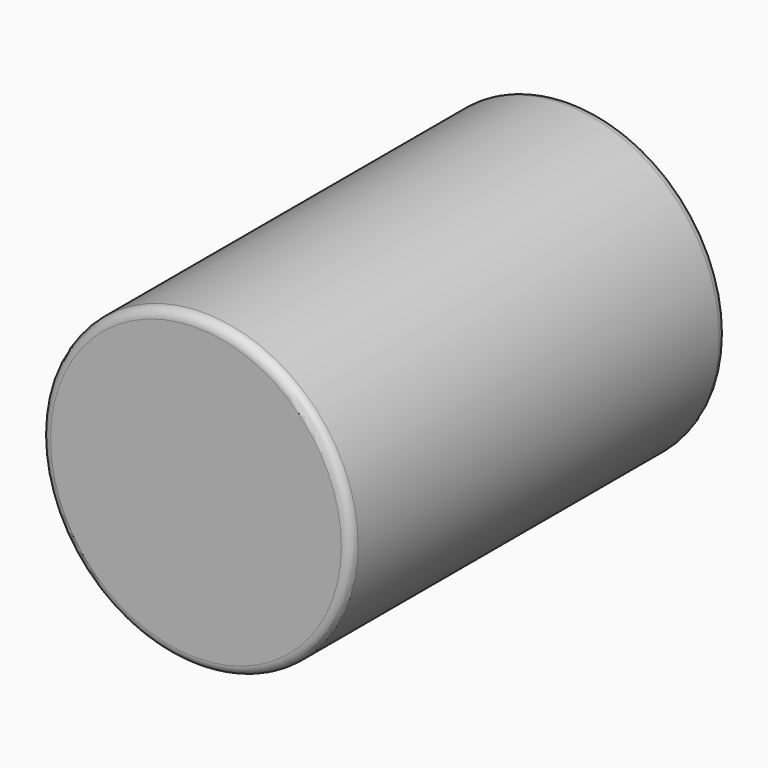
from build123d import *

# Parameters (mm, degrees)
F0_R     = 41.81566
F1_DEPTH = 127
F2_R     = 11.875081
F3_DEPTH = 6.35
F4_R     = 2.54
F5_R     = 2.54
F6_R     = 1.27


with BuildPart() as f1:
    # F0 (on Front) → F1 (new body)
    with BuildSketch(Plane.XZ):
        Circle(F0_R)
    extrude(amount=F1_DEPTH)

    # F2 (on face) → F3 (join)
    with BuildSketch(Plane(origin=(0, 0, 0), x_dir=(-1, 0, 0), z_dir=(0, 1, 0))):
        Circle(F2_R)
    extrude(amount=F3_DEPTH)

    # F4
    f4_edges = [f1.edges().sort_by_distance(p)[0] for p in [
        (-41.81566, 0, 0),
    ]]
    fillet(f4_edges, radius=F4_R)

    # F5
    f5_edges = [f1.edges().sort_by_distance(p)[0] for p in [
        (-41.81566, -127, 0),
    ]]
    fillet(f5_edges, radius=F5_R)

    # F6
    f6_edges = [f1.edges().sort_by_distance(p)[0] for p in [
        (11.875081, 6.35, 0),
    ]]
    fillet(f6_edges, radius=F6_R)


solid = f1.part
